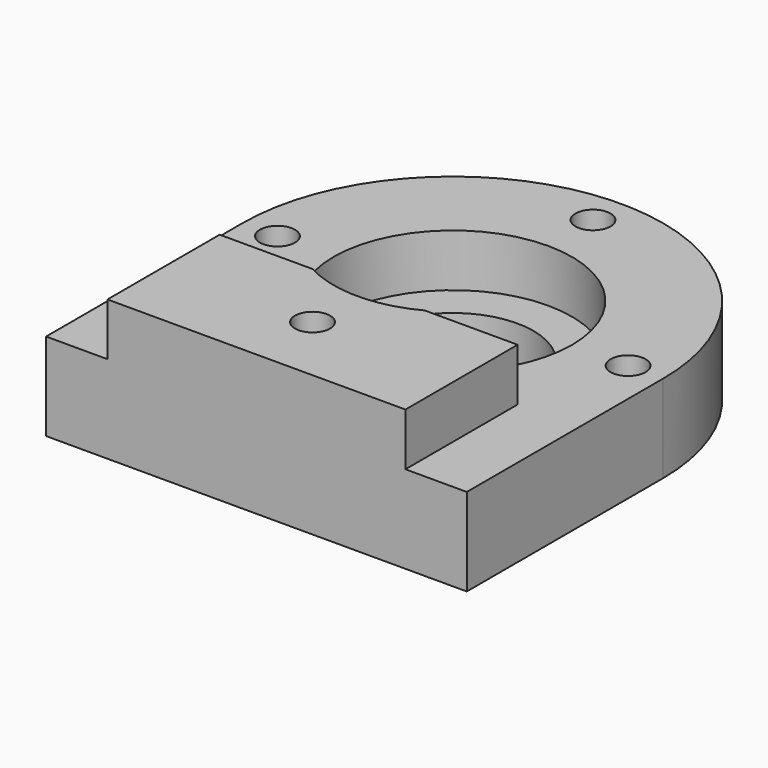
from build123d import *

# Parameters (mm, degrees)
F1_DEPTH      = 25
F2_W          = 85
F2_H          = 40
F3_DEPTH      = 15
F4_R          = 5
F5_DEPTH      = 15
F5_DEPTH_BACK = 25
F6_R          = 34
F7_DEPTH      = 15
F7_DEPTH_BACK = 15
F8_R          = 23
F9_DEPTH      = 25
F10_R         = 5
F11_DEPTH     = 25


with BuildPart() as f1:
    # F0 (on Top) → F1 (new body)
    with BuildSketch(Plane.XY):
        with BuildLine():
            Line((60, -70), (60, 0))
            ThreePointArc((60, 0), (0, -60), (-60, 0))
            Line((-60, 0), (-60, -70))
            Line((-60, -70), (60, -70))
        make_face()
        with BuildLine():
            ThreePointArc((-60, 0), (0, -60), (60, 0))
            Line((60, 0), (-60, 0))
        make_face()
        with BuildLine():
            Line((-60, 0), (60, 0))
            ThreePointArc((60, 0), (0, 60), (-60, 0))
        make_face()
    extrude(amount=-F1_DEPTH)

    # F2 (on Top) → F3 (join)
    with BuildSketch(Plane.XY):
        with Locations((0, -50)):
            Rectangle(F2_W, F2_H)
    extrude(amount=F3_DEPTH)

    # F4 (on Top) → F5 (cut, two sides)
    with BuildSketch(Plane.XY) as f5_sk:
        with Locations((0, -50)):
            Circle(F4_R)
    extrude(amount=F5_DEPTH, mode=Mode.SUBTRACT)
    extrude(f5_sk.sketch, amount=-F5_DEPTH_BACK, mode=Mode.SUBTRACT)

    # F6 (on Top) → F7 (cut, two sides)
    with BuildSketch(Plane.XY) as f7_sk:
        Circle(F6_R)
    extrude(amount=-F7_DEPTH, mode=Mode.SUBTRACT)
    extrude(f7_sk.sketch, amount=F7_DEPTH_BACK, mode=Mode.SUBTRACT)

    # F8 (on Top) → F9 (cut)
    with BuildSketch(Plane.XY):
        Circle(F8_R)
    extrude(amount=-F9_DEPTH, mode=Mode.SUBTRACT)

    # F10 (on Top) → F11 (cut)
    with BuildSketch(Plane.XY):
        with Locations((-50, 0)):
            Circle(F10_R)
        with Locations((0, 50)):
            Circle(F10_R)
        with Locations((50, 0)):
            Circle(F10_R)
    extrude(amount=-F11_DEPTH, mode=Mode.SUBTRACT)


solid = f1.part
